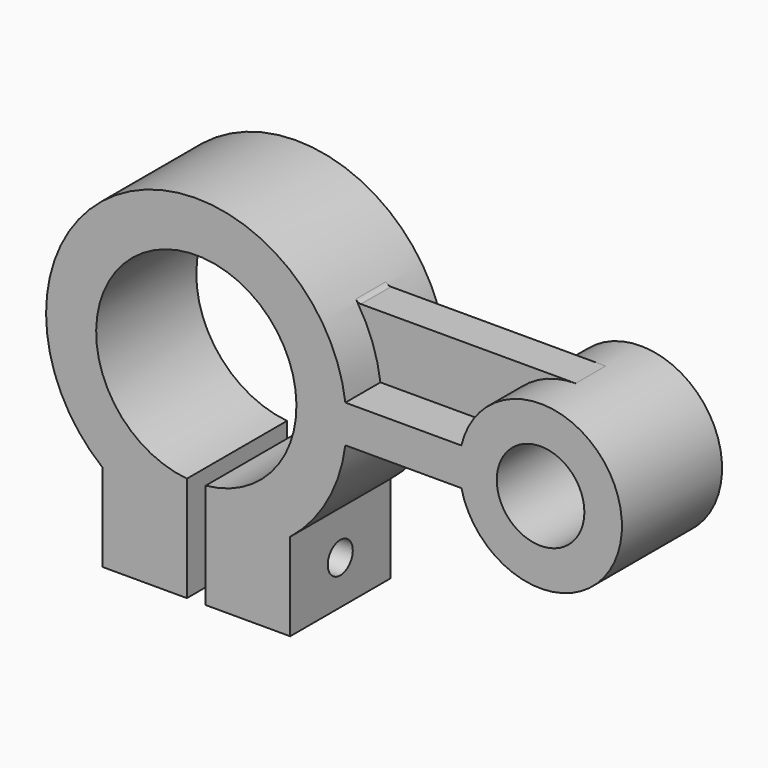
from build123d import *

# Parameters (mm, degrees)
SKETCH_R     = 7
PAD_DEPTH    = 10
SKETCH001_R  = 2.5
POCKET_DEPTH = 39.001
PAD001_DEPTH = 3
FILLET_R     = 1


with BuildPart() as pocket:
    # Sketch → Pad (new body, symmetric)
    with BuildSketch(Plane.XZ):
        with BuildLine():
            ThreePointArc((1.5, -15.929532), (0, 16), (-1.5, -15.929532))
            Line((-1.5, -32.734994), (-1.5, -15.929532))
            Line((-1.5, -32.734994), (-15, -32.734994))
            Line((-15, -32.734994), (-15, -18.734994))
            ThreePointArc((23.811762, 3), (-11.726648, 20.940051), (-15, -18.734994))
            Line((23.811762, 3), (42.350889, 3))
            ThreePointArc((42.350889, -3), (68, 0), (42.350889, 3))
            Line((42.350889, -3), (23.811762, -3))
            ThreePointArc((15, -18.734994), (20.940051, -11.726648), (23.811762, -3))
            Line((15, -18.734994), (15, -32.734994))
            Line((15, -32.734994), (1.5, -32.734994))
            Line((1.5, -15.929532), (1.5, -32.734994))
        make_face()
        with Locations((55, 0)):
            Circle(SKETCH_R, mode=Mode.SUBTRACT)
    extrude(amount=PAD_DEPTH, both=True)

    # Sketch001 → Pocket (cut, through all)
    with BuildSketch(Plane(origin=(15, 0, 0), x_dir=(0, 0, 1), z_dir=(1, 0, 0))):
        with Locations((-25.734994, 0)):
            Circle(SKETCH001_R)
    extrude(amount=-POCKET_DEPTH, mode=Mode.SUBTRACT)


with BuildPart() as fillet_body:
    # Sketch002 → Pad001 (new body, symmetric)
    with BuildSketch(Plane.XZ):
        with BuildLine():
            Line((23.811762, 3), (42.350889, 3))
            ThreePointArc((55, 13), (46.937742, 10.198039), (42.350889, 3))
            Line((20.174241, 13), (55, 13))
            ThreePointArc((23.811762, 3), (22.554204, 8.204139), (20.174241, 13))
        make_face()
    extrude(amount=PAD001_DEPTH, both=True)

    # Fusion: union Pocket
    add(pocket.part)

    # Fillet
    fillet_edges = [fillet_body.edges().sort_by_distance(p)[0] for p in [
        (20.174241, 0, 13),
    ]]
    fillet(fillet_edges, radius=FILLET_R)


solid = fillet_body.part
